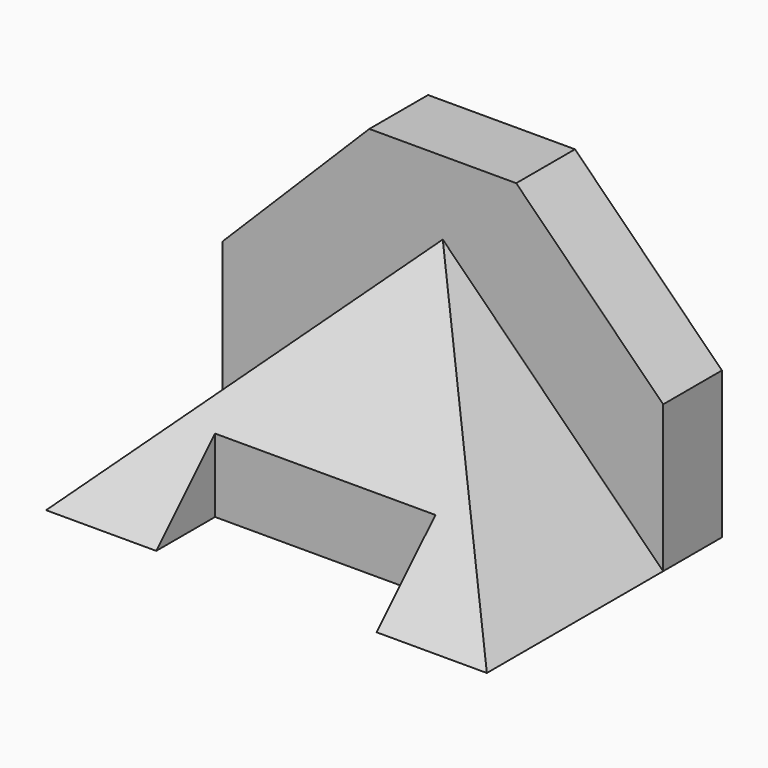
from build123d import *

# Parameters (mm, degrees)
F0_W     = 38.1
F0_H     = 12.7
F1_DEPTH = 25.4
F3_DEPTH = 76.201
F4_W     = 38.1
F4_H     = 12.7
F5_DEPTH = 50.801
F6_DEPTH = 12.7
F7_DEPTH = 25.4


with BuildPart() as f1:
    # F0 (on Front) → F1 (new body, symmetric)
    with BuildSketch(Plane.XZ):
        Polygon((-38.1, 38.1), (0, 0), (0, 25.4), (-12.7, 38.1), align=None)
        Polygon((-19.05, 0), (0, 0), (-38.1, 38.1), (-76.2, 0), (-57.15, 0), (-57.15, 12.7), (-19.05, 12.7), align=None)
        with Locations((-38.1, 6.35)):
            Rectangle(F0_W, F0_H)
        Polygon((-76.2, 0), (-38.1, 38.1), (-63.5, 38.1), (-76.2, 25.4), align=None)
        Polygon((-63.5, 38.1), (-38.1, 38.1), (-12.7, 38.1), (-25.4, 50.8), (-50.8, 50.8), align=None)
    extrude(amount=F1_DEPTH, both=True)

    # F2 (on Right) → F3 (cut, through all)
    with BuildSketch(Plane.YZ):
        Polygon((12.7, 38.1), (12.7, 50.8), (-25.4, 50.8), (-25.4, 0), align=None)
    extrude(amount=-F3_DEPTH, mode=Mode.SUBTRACT)

    # F4 (on Top) → F5 (cut, through all)
    with BuildSketch(Plane.XY):
        with Locations((-38.1, -19.05)):
            Rectangle(F4_W, F4_H)
    extrude(amount=F5_DEPTH, mode=Mode.SUBTRACT)

    # F0 (on Front) → F6 (cut, symmetric)
    with BuildSketch(Plane.XZ):
        Polygon((-76.2, 0), (-38.1, 38.1), (-63.5, 38.1), (-76.2, 25.4), align=None)
        Polygon((-38.1, 38.1), (0, 0), (0, 25.4), (-12.7, 38.1), align=None)
    extrude(amount=F6_DEPTH, both=True, mode=Mode.SUBTRACT)

    # F0 (on Front) → F7 (cut)
    with BuildSketch(Plane.XZ):
        Polygon((-76.2, 0), (-38.1, 38.1), (-63.5, 38.1), (-76.2, 25.4), align=None)
        Polygon((-38.1, 38.1), (0, 0), (0, 25.4), (-12.7, 38.1), align=None)
    extrude(amount=F7_DEPTH, mode=Mode.SUBTRACT)


solid = f1.part
